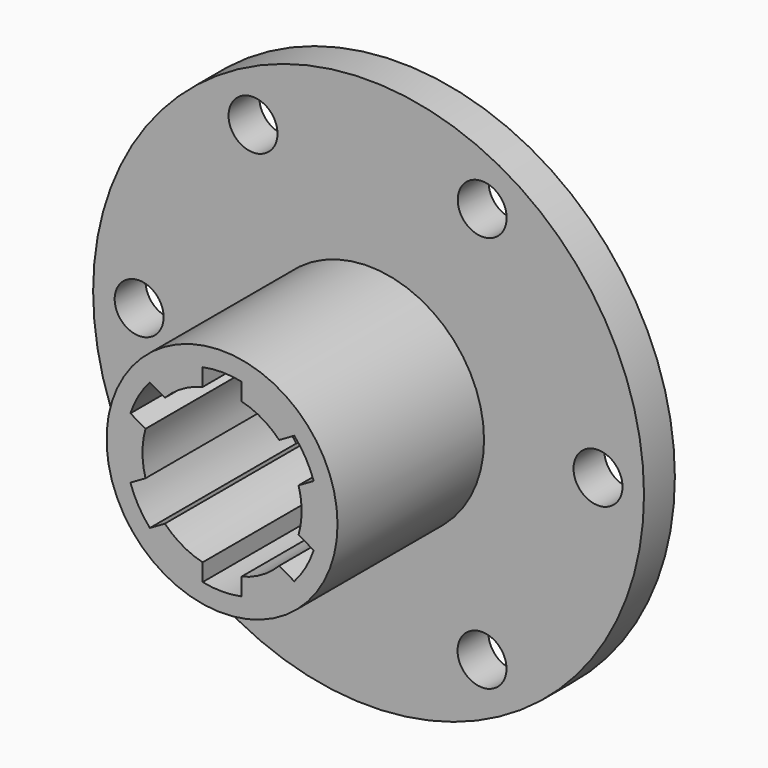
from build123d import *

# Parameters (mm, degrees)
F1_R     = 11.980735
F2_DEPTH = 23
F0_R     = 28.575
F0_R_2   = 2.54
F3_DEPTH = 4


with BuildPart() as f2:
    # F1 (on Front) → F2 (new body)
    with BuildSketch(Plane.XZ):
        with Locations((-0.001662, -0.397164)):
            Circle(F1_R)
        with BuildLine():
            add(Edge.make_bspline(
                [(2.011906, 7.609146), (2.011906, 7.809895), (2.011906, 8.211393), (2.011906, 8.813639), (2.011906, 9.215137), (2.011906, 9.415886)],
                knots=[0, 0, 0, 0, 0.602247, 1.204493, 1.80674, 1.80674, 1.80674, 1.80674], degree=3))
            ThreePointArc((2.011906, 7.609146), (4.126154, 6.752423), (5.925221, 5.349793))
            add(Edge.make_bspline(
                [(7.489904, 6.253163), (7.316434, 6.15301), (6.969194, 5.952531), (6.447633, 5.651408), (6.099543, 5.450437), (5.925221, 5.349793)],
                knots=[0, 0, 0, 0, 0.600918, 1.202873, 1.80674, 1.80674, 1.80674, 1.80674], degree=3))
            ThreePointArc((7.489904, 6.253163), (8.673752, 4.611589), (9.503473, 2.765559))
            add(Edge.make_bspline(
                [(7.93879, 1.862189), (8.113111, 1.962834), (8.461202, 2.163804), (8.982763, 2.464927), (9.330002, 2.665406), (9.503473, 2.765559)],
                knots=[0, 0, 0, 0, 0.603867, 1.205822, 1.80674, 1.80674, 1.80674, 1.80674], degree=3))
            ThreePointArc((7.93879, 1.862189), (8.25397, -0.397164), (7.93879, -2.656517))
            add(Edge.make_bspline(
                [(9.503473, -3.559887), (9.330002, -3.459734), (8.982763, -3.259255), (8.461202, -2.958132), (8.113111, -2.757162), (7.93879, -2.656517)],
                knots=[0, 0, 0, 0, 0.600918, 1.202873, 1.80674, 1.80674, 1.80674, 1.80674], degree=3))
            ThreePointArc((9.503473, -3.559887), (8.673752, -5.405917), (7.489904, -7.047491))
            add(Edge.make_bspline(
                [(5.925221, -6.144121), (6.099543, -6.244765), (6.447633, -6.445736), (6.969194, -6.746859), (7.316434, -6.947338), (7.489904, -7.047491)],
                knots=[0, 0, 0, 0, 0.603867, 1.205822, 1.80674, 1.80674, 1.80674, 1.80674], degree=3))
            ThreePointArc((5.925221, -6.144121), (4.126154, -7.546751), (2.011906, -8.403474))
            add(Edge.make_bspline(
                [(2.011906, -10.210214), (2.011906, -10.009465), (2.011906, -9.607967), (2.011906, -9.005721), (2.011906, -8.604223), (2.011906, -8.403474)],
                knots=[0, 0, 0, 0, 0.602247, 1.204493, 1.80674, 1.80674, 1.80674, 1.80674], degree=3))
            ThreePointArc((2.011906, -10.210214), (-0.001662, -10.414669), (-2.015231, -10.210214))
            add(Edge.make_bspline(
                [(-2.015231, -8.403474), (-2.015231, -8.604223), (-2.015231, -9.005721), (-2.015231, -9.607967), (-2.015231, -10.009465), (-2.015231, -10.210214)],
                knots=[0, 0, 0, 0, 0.602247, 1.204493, 1.80674, 1.80674, 1.80674, 1.80674], degree=3))
            ThreePointArc((-2.015231, -8.403474), (-4.129479, -7.546751), (-5.928546, -6.144121))
            add(Edge.make_bspline(
                [(-7.493228, -7.047491), (-7.319758, -6.947338), (-6.972519, -6.746859), (-6.450958, -6.445736), (-6.102867, -6.244765), (-5.928546, -6.144121)],
                knots=[0, 0, 0, 0, 0.600918, 1.202873, 1.80674, 1.80674, 1.80674, 1.80674], degree=3))
            ThreePointArc((-7.493228, -7.047491), (-8.677076, -5.405917), (-9.506797, -3.559887))
            add(Edge.make_bspline(
                [(-7.942115, -2.656517), (-8.116436, -2.757162), (-8.464527, -2.958132), (-8.986088, -3.259255), (-9.333327, -3.459734), (-9.506797, -3.559887)],
                knots=[0, 0, 0, 0, 0.603867, 1.205822, 1.80674, 1.80674, 1.80674, 1.80674], degree=3))
            ThreePointArc((-7.942115, -2.656517), (-8.257295, -0.397164), (-7.942115, 1.862189))
            add(Edge.make_bspline(
                [(-9.506797, 2.765559), (-9.333327, 2.665406), (-8.986088, 2.464927), (-8.464527, 2.163804), (-8.116436, 1.962834), (-7.942115, 1.862189)],
                knots=[0, 0, 0, 0, 0.600918, 1.202873, 1.80674, 1.80674, 1.80674, 1.80674], degree=3))
            ThreePointArc((-9.506797, 2.765559), (-8.677076, 4.611589), (-7.493228, 6.253163))
            add(Edge.make_bspline(
                [(-5.928546, 5.349793), (-6.102867, 5.450437), (-6.450958, 5.651408), (-6.972519, 5.952531), (-7.319758, 6.15301), (-7.493228, 6.253163)],
                knots=[0, 0, 0, 0, 0.603867, 1.205822, 1.80674, 1.80674, 1.80674, 1.80674], degree=3))
            ThreePointArc((-5.928546, 5.349793), (-4.129479, 6.752423), (-2.015231, 7.609146))
            add(Edge.make_bspline(
                [(-2.015231, 9.415886), (-2.015231, 9.215137), (-2.015231, 8.813639), (-2.015231, 8.211393), (-2.015231, 7.809895), (-2.015231, 7.609146)],
                knots=[0, 0, 0, 0, 0.602247, 1.204493, 1.80674, 1.80674, 1.80674, 1.80674], degree=3))
            ThreePointArc((-2.015231, 9.415886), (-0.001662, 9.620341), (2.011906, 9.415886))
        make_face(mode=Mode.SUBTRACT)
    extrude(amount=F2_DEPTH)

    # F0 (on Front) → F3 (join)
    with BuildSketch(Plane.XZ):
        Circle(F0_R)
        with Locations((-12.036908, -20.535689)):
            Circle(F0_R_2, mode=Mode.SUBTRACT)
        with Locations((11.767376, -20.535689)):
            Circle(F0_R_2, mode=Mode.SUBTRACT)
        with Locations((-23.8, 0)):
            Circle(F0_R_2, mode=Mode.SUBTRACT)
        with Locations((-11.988438, 20.600075)):
            Circle(F0_R_2, mode=Mode.SUBTRACT)
        with Locations((23.8, 0)):
            Circle(F0_R_2, mode=Mode.SUBTRACT)
        with Locations((11.78722, 20.636372)):
            Circle(F0_R_2, mode=Mode.SUBTRACT)
    extrude(amount=F3_DEPTH)


solid = f2.part
